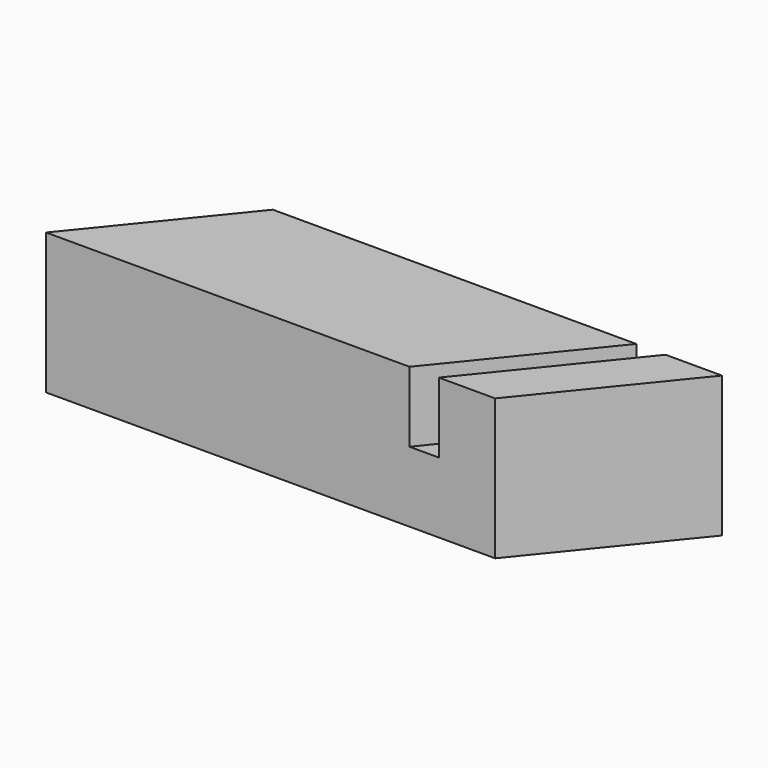
from build123d import *

# Parameters (mm, degrees)
F1_DEPTH = 25
F2_DEPTH = 12.5


with BuildPart() as f1:
    # F0 (on Top) → F1 (new body)
    with BuildSketch(Plane.XY):
        Polygon((-25.450447, 25), (-45.720716, 0), (18.809016, 0), (39.079284, 25), align=None)
        Polygon((44.279284, 25), (24.009016, 0), (34.009016, 0), (54.279284, 25), align=None)
    extrude(amount=F1_DEPTH)

    # F0 (on Top) → F2 (join)
    with BuildSketch(Plane.XY):
        Polygon((39.079284, 25), (18.809016, 0), (24.009016, 0), (44.279284, 25), align=None)
    extrude(amount=F2_DEPTH)


solid = f1.part
